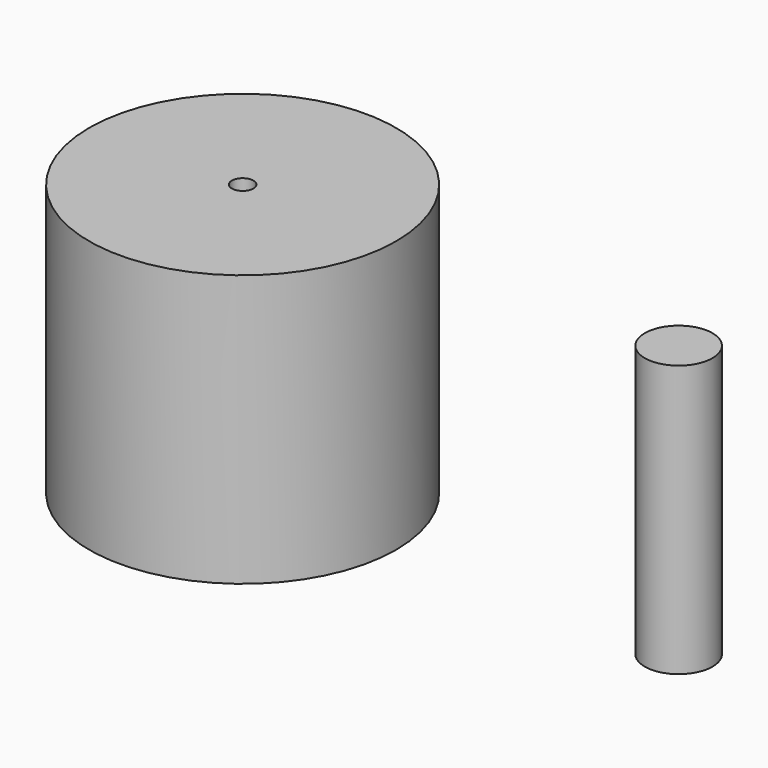
from build123d import *

# Parameters (mm, degrees)
F0_R           = 21.363481
F1_DEPTH       = 37.8
F0_R_2         = 4.711426
F2_DEPTH       = 37.8
F3_D           = 3
F3_CBORE_D     = 7
F3_CBORE_DEPTH = 20


with BuildPart() as f1:
    # F0 (on Top) → F1 (new body)
    with BuildSketch(Plane.XY):
        with Locations((-34.636654, 0)):
            Circle(F0_R)
    extrude(amount=F1_DEPTH)

    # F3 (through all)
    with Locations(Plane(origin=(0, 0, 0), x_dir=(1, 0, 0), z_dir=(0, 0, -1))):
        with Locations((-34.636654, 0)):
            CounterBoreHole(F3_D / 2, F3_CBORE_D / 2, F3_CBORE_DEPTH)


with BuildPart() as f2:
    # F0 (on Top) → F2 (new body, through all)
    with BuildSketch(Plane.XY):
        with Locations((26.040697, 0)):
            Circle(F0_R_2)
    extrude(amount=F2_DEPTH)


solid = Compound([f1.part, f2.part])
